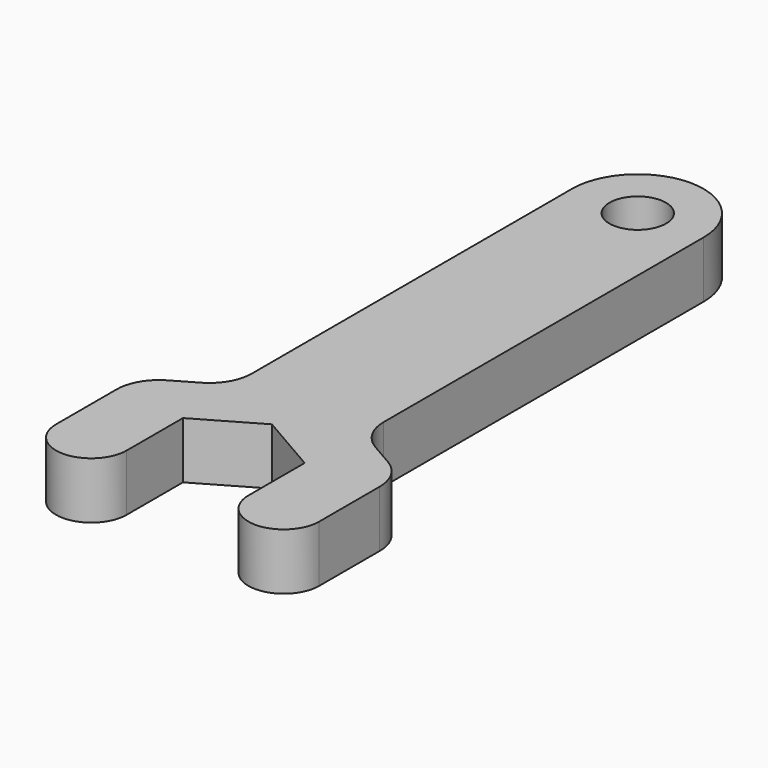
from build123d import *

# Parameters (mm, degrees)
F1_DEPTH = 4
F2_R     = 3
F3_R     = 2
F4_DEPTH = 4


with BuildPart() as f1:
    # F0 (on Top) → F1 (new body)
    with BuildSketch(Plane.XY):
        Polygon((-4.3, 2.482606), (0, 4.965212), (0, 9.965212), (-4.65, 7.280534), (-9.3, 4.595855), (-9.3, -2.482606), (-4.3, -2.482606), align=None)
        Polygon((0, 4.965212), (4.3, 2.482606), (4.3, -2.482606), (9.3, -2.482606), (9.3, 4.595855), (4.65, 7.280534), (0, 9.965212), align=None)
        with BuildLine():
            Line((-4.65, 7.280534), (0, 9.965212))
            Line((0, 9.965212), (4.65, 7.280534))
            Line((4.65, 7.280534), (4.65, 37.280534))
            ThreePointArc((4.65, 37.280534), (0, 41.930534), (-4.65, 37.280534))
            Line((-4.65, 37.280534), (-4.65, 7.280534))
        make_face()
        with BuildLine():
            ThreePointArc((-9.3, -2.482606), (-6.8, -4.982606), (-4.3, -2.482606))
            Line((-4.3, -2.482606), (-9.3, -2.482606))
        make_face()
        with BuildLine():
            Line((9.3, -2.482606), (4.3, -2.482606))
            ThreePointArc((4.3, -2.482606), (6.8, -4.982606), (9.3, -2.482606))
        make_face()
    extrude(amount=F1_DEPTH)

    # F2
    f2_edges = [f1.edges().sort_by_distance(p)[0] for p in [
        (9.3, 4.595855, 2),
        (4.65, 7.280534, 2),
        (-4.65, 7.280534, 2),
        (-9.3, 4.595855, 2),
    ]]
    fillet(f2_edges, radius=F2_R)

    # F3 (on face) → F4 (cut, through all)
    with BuildSketch(Plane.XY.offset(4)):
        with Locations((0, 37.280534)):
            Circle(F3_R)
    extrude(amount=-F4_DEPTH, mode=Mode.SUBTRACT)


solid = f1.part
